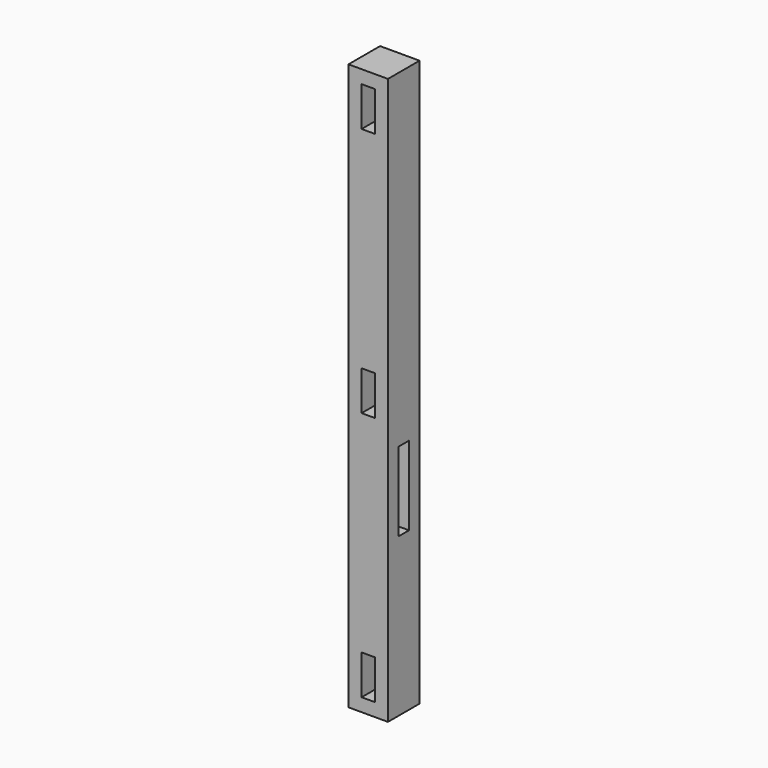
from build123d import *

# Parameters (mm, degrees)
F0_W          = 76.2
F0_H          = 1092.2
F0_W_2        = 25.4
F0_H_2        = 76.2
F1_DEPTH      = 38.1
F1_DEPTH_BACK = 38.1
F2_W          = 25.4
F2_H          = 152.4
F3_DEPTH      = 101.6


with BuildPart() as f1:
    # F0 (on Front) → F1 (new body, two sides)
    with BuildSketch(Plane.XZ) as f1_sk:
        Rectangle(F0_W, F0_H)
        with Locations((0, -482.6)):
            Rectangle(F0_W_2, F0_H_2, mode=Mode.SUBTRACT)
        Rectangle(F0_W_2, F0_H_2, mode=Mode.SUBTRACT)
        with Locations((0, 482.6)):
            Rectangle(F0_W_2, F0_H_2, mode=Mode.SUBTRACT)
    extrude(amount=F1_DEPTH)
    extrude(f1_sk.sketch, amount=-F1_DEPTH_BACK)

    # F2 (on face) → F3 (cut)
    with BuildSketch(Plane.YZ.offset(38.1)):
        with Locations((0, -165.1)):
            Rectangle(F2_W, F2_H)
    extrude(amount=-F3_DEPTH, mode=Mode.SUBTRACT)


solid = f1.part
